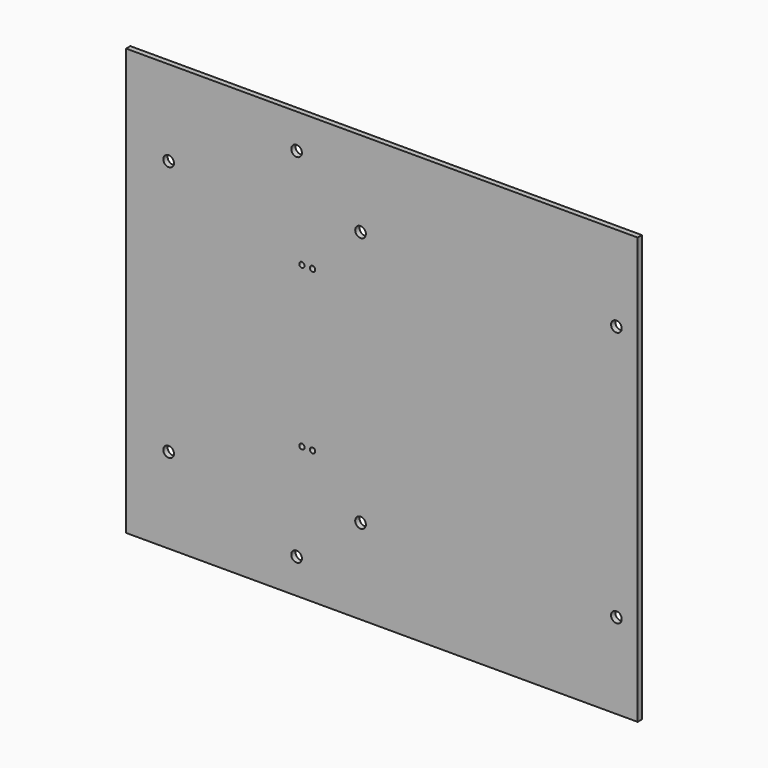
from build123d import *

# Parameters (mm, degrees)
F0_W     = 609.6
F0_H     = 508
F0_R     = 6.35
F1_DEPTH = 6.35
F2_R     = 3.175
F3_DEPTH = 25.4
F4_R     = 6.35
F5_DEPTH = 25.4
F6_R     = 6.35
F7_DEPTH = 25.4


with BuildPart() as f1:
    # F0 (on Front) → F1 (new body)
    with BuildSketch(Plane.XZ):
        with Locations((304.8, 254)):
            Rectangle(F0_W, F0_H)
        with Locations((279.4, 101.6)):
            Circle(F0_R, mode=Mode.SUBTRACT)
        with Locations((584.2, 101.6)):
            Circle(F0_R, mode=Mode.SUBTRACT)
        with Locations((279.4, 406.4)):
            Circle(F0_R, mode=Mode.SUBTRACT)
        with Locations((584.2, 406.4)):
            Circle(F0_R, mode=Mode.SUBTRACT)
    extrude(amount=F1_DEPTH)

    # F2 (on face) → F3 (cut)
    with BuildSketch(Plane.XZ.offset(6.35)):
        with Locations((209.55, 158.75)):
            Circle(F2_R)
        with Locations((222.25, 158.75)):
            Circle(F2_R)
        with Locations((209.55, 349.25)):
            Circle(F2_R)
        with Locations((222.25, 349.25)):
            Circle(F2_R)
    extrude(amount=-F3_DEPTH, mode=Mode.SUBTRACT)

    # F4 (on face) → F5 (cut)
    with BuildSketch(Plane.XZ.offset(6.35)):
        with Locations((50.8, 406.4)):
            Circle(F4_R)
        with Locations((50.8, 101.6)):
            Circle(F4_R)
    extrude(amount=-F5_DEPTH, mode=Mode.SUBTRACT)

    # F6 (on face) → F7 (cut)
    with BuildSketch(Plane.XZ.offset(6.35)):
        with Locations((203.2, 41.275)):
            Circle(F6_R)
        with Locations((203.2, 466.725)):
            Circle(F6_R)
    extrude(amount=-F7_DEPTH, mode=Mode.SUBTRACT)


solid = f1.part
